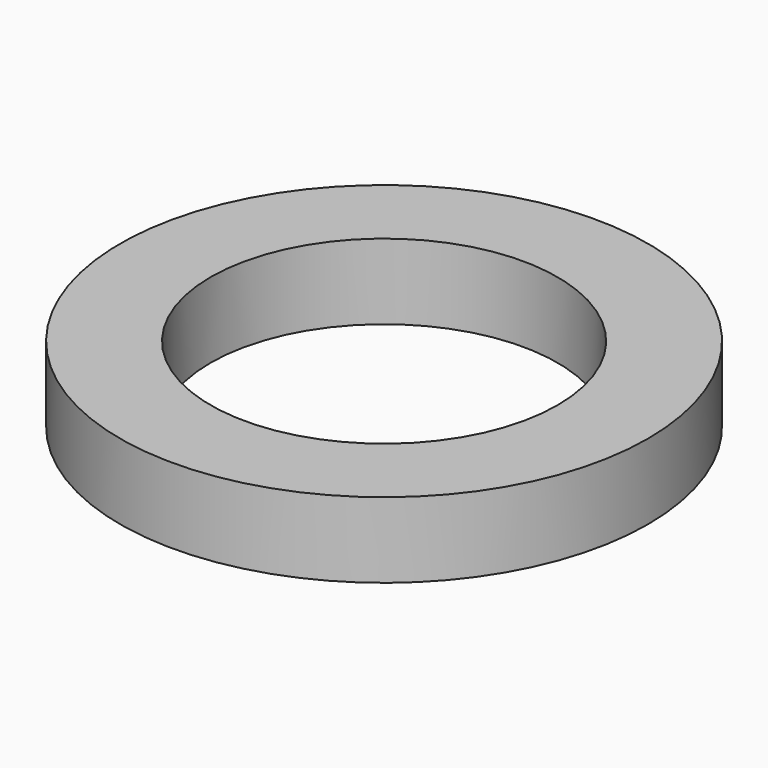
from build123d import *

# Parameters (mm, degrees)
CYLINDER001_R     = 11.5
CYLINDER001_DEPTH = 5
CYLINDER_R        = 17.5
CYLINDER_DEPTH    = 5


with BuildPart() as obj1:
    # Cylinder001 → Cylinder001 (new body)
    with BuildSketch(Plane.XY):
        Circle(CYLINDER001_R)
    extrude(amount=CYLINDER001_DEPTH)


with BuildPart() as toplevelpart_outletplug:
    # Cylinder → Cylinder (new body)
    with BuildSketch(Plane.XY):
        Circle(CYLINDER_R)
    extrude(amount=CYLINDER_DEPTH)

    # Cut: cut obj1
    add(obj1.part, mode=Mode.SUBTRACT)


solid = toplevelpart_outletplug.part
